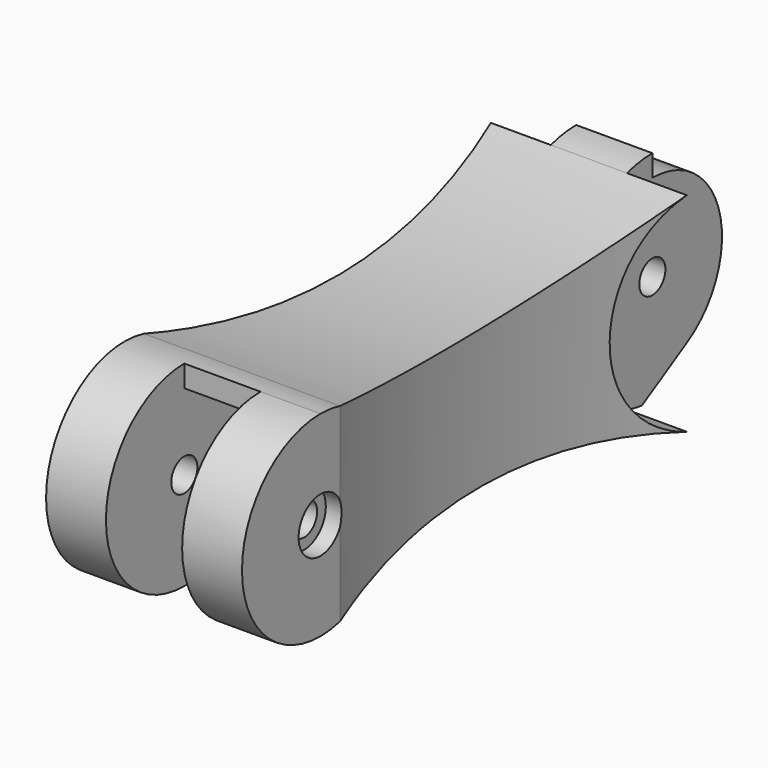
from build123d import *

# Parameters (mm, degrees)
F1_DEPTH  = 5.5
F3_DEPTH  = 7
F5_DEPTH  = 5.5
F6_R      = 10
F7_DEPTH  = 5.5
F8_R      = 10
F9_DEPTH  = 5.5
F11_DEPTH = 12.501
F12_R     = 1.5
F13_DEPTH = 18.001
F14_R     = 2.5
F15_DEPTH = 1.5
F16_R     = 2.5
F17_DEPTH = 1.5
F18_R     = 83.4133197042
F19_DEPTH = 12.5


with BuildPart() as f1:
    # F0 (on Right) → F1 (new body)
    with BuildSketch(Plane.YZ):
        with BuildLine():
            ThreePointArc((42.0884551059, 9.566760493), (22.2278404433, 6.393975856), (2.2496848399, 8.7142938969))
            ThreePointArc((2.2496848399, 8.7142938969), (-9, 0), (2.2496848399, -8.7142938969))
            ThreePointArc((2.2496848399, -8.7142938969), (22.2278404433, -6.393975856), (42.0884551059, -9.566760493))
            ThreePointArc((42.0884551059, -9.566760493), (55, 0), (42.0884551059, 9.566760493))
        make_face()
    extrude(amount=F1_DEPTH)

    # F2 (on face) → F3 (join)
    with BuildSketch(Plane.YZ.offset(5.5)):
        with BuildLine():
            ThreePointArc((42.0884551059, 9.566760493), (22.2278404433, 6.393975856), (2.2496848399, 8.7142938969))
            ThreePointArc((2.2496848399, 8.7142938969), (1.1338771821, 8.9282877718), (0, 9))
            Line((0, 9), (0, 7))
            ThreePointArc((0, 7), (3.4468203516, 6.0925716626), (6, 3.6055512755))
            Line((6, 3.6055512755), (12.2854984686, -6.8541504262))
            ThreePointArc((12.2854984686, -6.8541504262), (27.3262576199, -6.6802021184), (42.0884551059, -9.566760493))
            ThreePointArc((42.0884551059, -9.566760493), (55, 0), (42.0884551059, 9.566760493))
        make_face()
    extrude(amount=F3_DEPTH)

    # F4 (on face) → F5 (join)
    with BuildSketch(Plane.YZ.offset(12.5)):
        with BuildLine():
            ThreePointArc((2.2496848399, 8.7142938969), (1.1338771821, 8.9282877718), (0, 9))
            ThreePointArc((0, 9), (-8.9282877718, -1.1338771821), (2.2496848399, -8.7142938969))
            ThreePointArc((2.2496848399, -8.7142938969), (7.235317588, -7.610097682), (12.2854984686, -6.8541504262))
            ThreePointArc((12.2854984686, -6.8541504262), (27.3262576199, -6.6802021184), (42.0884551059, -9.566760493))
            ThreePointArc((42.0884551059, -9.566760493), (55, 0), (42.0884551059, 9.566760493))
            ThreePointArc((42.0884551059, 9.566760493), (22.2278404433, 6.393975856), (2.2496848399, 8.7142938969))
        make_face()
    extrude(amount=F5_DEPTH)

    # F6 (on face) → F7 (cut)
    with BuildSketch(Plane.YZ.offset(18)):
        with Locations((45, 0)):
            Circle(F6_R)
    extrude(amount=-F7_DEPTH, mode=Mode.SUBTRACT)

    # F8 (on face) → F9 (cut)
    with BuildSketch(Plane(origin=(0, 0, 0), x_dir=(0, -1, 0), z_dir=(-1, 0, 0))):
        with Locations((-45, 0)):
            Circle(F8_R)
    extrude(amount=-F9_DEPTH, mode=Mode.SUBTRACT)

    # F10 (on face) → F11 (cut, through all)
    with BuildSketch(Plane.YZ.offset(12.5)):
        with BuildLine():
            ThreePointArc((45, 8), (52.7274066103, 2.0705523608), (49, -6.9282032303))
            Line((49, -6.9282032303), (43.8038475773, -9.9282032303))
            ThreePointArc((43.8038475773, -9.9282032303), (54.9820346699, -0.5991526088), (45, 10))
            Line((45, 10), (45, 8))
        make_face()
    extrude(amount=-F11_DEPTH, mode=Mode.SUBTRACT)

    # F12 (on face) → F13 (cut, through all)
    with BuildSketch(Plane.YZ.offset(18)):
        Circle(F12_R)
        with Locations((45, 0)):
            Circle(F12_R)
    extrude(amount=-F13_DEPTH, mode=Mode.SUBTRACT)

    # F14 (on face) → F15 (cut)
    with BuildSketch(Plane.YZ.offset(18)):
        Circle(F14_R)
    extrude(amount=-F15_DEPTH, mode=Mode.SUBTRACT)

    # F16 (on face) → F17 (cut)
    with BuildSketch(Plane(origin=(0, 0, 0), x_dir=(0, -1, 0), z_dir=(-1, 0, 0))):
        Circle(F16_R)
    extrude(amount=-F17_DEPTH, mode=Mode.SUBTRACT)

    # F18 (on Top) → F19 (cut, symmetric)
    with BuildSketch(Plane.XY):
        with Locations((-81, 22.1690699729)):
            Circle(F18_R)
        with Locations((99, 22.1690699729)):
            Circle(F18_R)
    extrude(amount=F19_DEPTH, both=True, mode=Mode.SUBTRACT)


solid = f1.part
